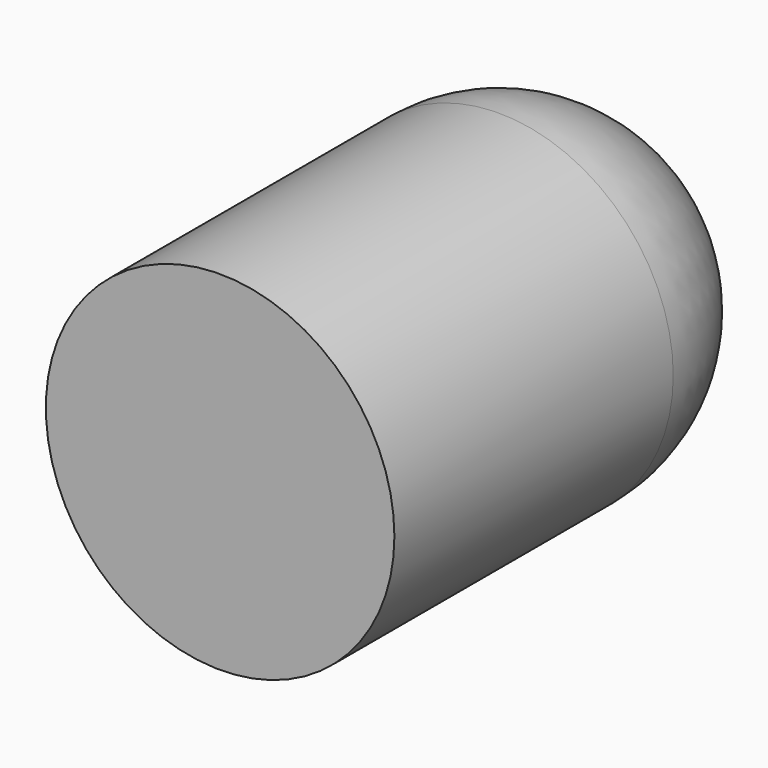
from build123d import *


with BuildPart() as f1:
    # F0 (on Top) → F1 (revolve)
    with BuildSketch(Plane.XY):
        with BuildLine():
            Line((0, 38.1), (0, 0))
            Line((0, 0), (12.7, 0))
            Line((12.7, 0), (12.7, 25.4))
            ThreePointArc((12.7, 25.4), (8.980256, 34.380256), (0, 38.1))
        make_face()
    revolve(axis=Axis((0, 79.887098, 0), (0, 1, 0)))


solid = f1.part
